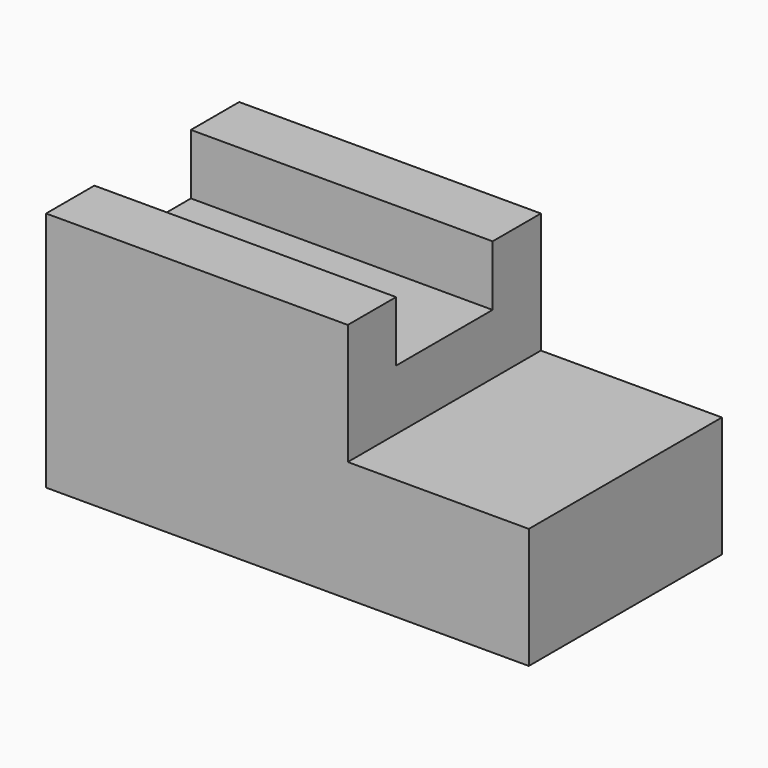
from build123d import *

# Parameters (mm, degrees)
F1_DEPTH = 101.6
F3_W     = 127
F3_H     = 50.8
F4_DEPTH = 25.4


with BuildPart() as f1:
    # F0 (on Front) → F1 (new body)
    with BuildSketch(Plane.XZ):
        Polygon((59.372496, 43.63357), (-67.627504, 43.63357), (-67.627504, -57.96643), (135.572496, -57.96643), (135.572496, -7.16643), (59.372496, -7.16643), align=None)
    extrude(amount=F1_DEPTH)

    # F3 (on face) → F4 (cut)
    with BuildSketch(Plane.XY.offset(43.63357)):
        with Locations((-4.127504, -50.8)):
            Rectangle(F3_W, F3_H)
    extrude(amount=-F4_DEPTH, mode=Mode.SUBTRACT)


solid = f1.part
